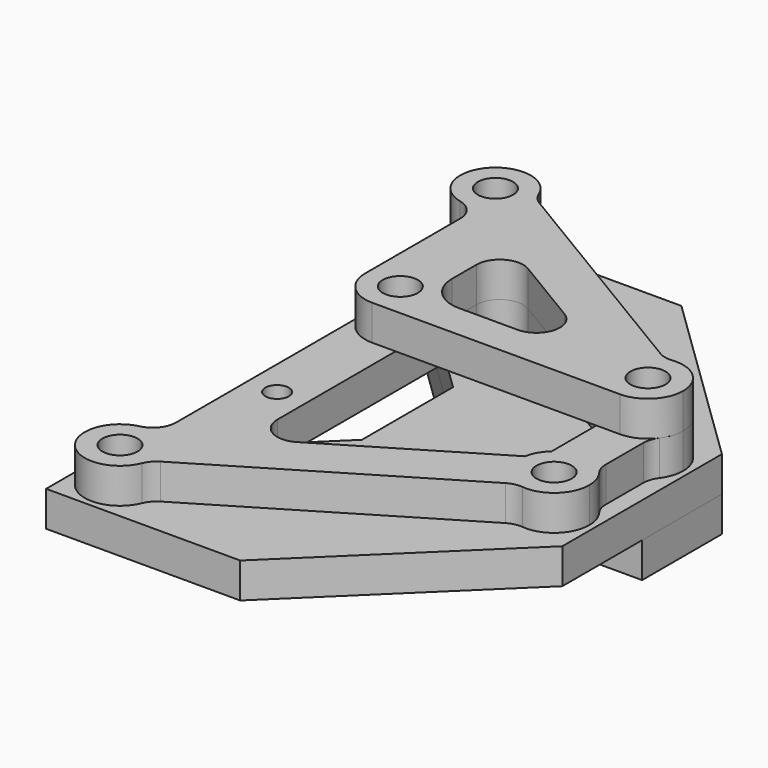
from build123d import *

# Parameters (mm, degrees)
F0_R      = 1.5
F1_DEPTH  = 3
F2_DEPTH  = 3
F3_R      = 1.5
F4_DEPTH  = 3
F5_R      = 2
F6_R      = 1.5
F7_DEPTH  = 3
F8_R      = 3
F9_R      = 1
F10_DEPTH = 3
F11_R     = 1.5
F12_DEPTH = 3


with BuildPart() as f1:
    # F0 (on Top) → F1 (new body)
    with BuildSketch(Plane.XY):
        Polygon((-3.5, 16.5), (8.5, 4.8529411765), (8.5, 0), (28.5, 0), (28.5, 8.5), (13.0454545455, 23.5), (-3.5, 23.5), align=None)
        with Locations((0, 20)):
            Circle(F0_R, mode=Mode.SUBTRACT)
        with Locations((25, 5)):
            Circle(F0_R, mode=Mode.SUBTRACT)
        Polygon((28.5, 0), (8.5, 0), (8.5, -4.8529411765), (-3.5, -16.5), (-3.5, -23.5), (13.0454545455, -23.5), (28.5, -8.5), align=None)
        with Locations((0, -20)):
            Circle(F0_R, mode=Mode.SUBTRACT)
        with Locations((25, -5)):
            Circle(F0_R, mode=Mode.SUBTRACT)
    extrude(amount=F1_DEPTH)


with BuildPart() as f2:
    # F0 (on Top) → F2 (new body)
    with BuildSketch(Plane.XY):
        Polygon((-3.5, 16.5), (8.5, 4.8529411765), (8.5, 0), (28.5, 0), (28.5, 8.5), (13.0454545455, 23.5), (-3.5, 23.5), align=None)
        with Locations((0, 20)):
            Circle(F0_R, mode=Mode.SUBTRACT)
        with Locations((25, 5)):
            Circle(F0_R, mode=Mode.SUBTRACT)
    extrude(amount=-F2_DEPTH)


with BuildPart() as f4:
    # F3 (on face) → F4 (new body)
    with BuildSketch(Plane.XY.offset(3)):
        with BuildLine():
            ThreePointArc((0.8884209613, 17.1345666653), (2.415084148, 18.2202897545), (3, 20))
            ThreePointArc((3, 20), (2.9865709391, 20.2835384022), (2.946403983, 20.5645383682))
            ThreePointArc((2.946403983, 20.5645383682), (-2.5724787771, 21.5434872663), (0.8884209613, 17.1345666653))
        make_face()
        with Locations((0, 20)):
            Circle(F3_R, mode=Mode.SUBTRACT)
        with BuildLine():
            ThreePointArc((3, -20), (2.415084148, -18.2202897545), (0.8884209613, -17.1345666653))
            ThreePointArc((0.8884209613, -17.1345666653), (-2.5724787771, -21.5434872663), (2.946403983, -20.5645383682))
            ThreePointArc((2.946403983, -20.5645383682), (2.9865709391, -20.2835384022), (3, -20))
        make_face()
        with Locations((0, -20)):
            Circle(F3_R, mode=Mode.SUBTRACT)
        with BuildLine():
            Line((27, -2.7639320225), (27, 2.7639320225))
            ThreePointArc((27, 2.7639320225), (25, 2), (23, 2.7639320225))
            Line((23, 2.7639320225), (23, -2.7639320225))
            ThreePointArc((23, -2.7639320225), (25, -2), (27, -2.7639320225))
        make_face()
        with BuildLine():
            ThreePointArc((28, 5), (26.7797102455, 7.415084148), (24.1115790387, 7.8654333347))
            ThreePointArc((24.1115790387, 7.8654333347), (22.4275212229, 6.5434872663), (22.053596017, 4.4354616318))
            ThreePointArc((22.053596017, 4.4354616318), (22.3894002797, 3.521903555), (23, 2.7639320225))
            ThreePointArc((23, 2.7639320225), (25, 2), (27, 2.7639320225))
            ThreePointArc((27, 2.7639320225), (27.7386127875, 3.7752551286), (28, 5))
        make_face()
        with Locations((25, 5)):
            Circle(F3_R, mode=Mode.SUBTRACT)
        with BuildLine():
            ThreePointArc((2.946403983, 20.5645383682), (2.9865709391, 20.2835384022), (3, 20))
            ThreePointArc((3, 20), (2.415084148, 18.2202897545), (0.8884209613, 17.1345666653))
            Line((0.8884209613, 17.1345666653), (5.8884209613, 14.1345666653))
            Line((5.8884209613, 14.1345666653), (22.053596017, 4.4354616318))
            ThreePointArc((22.053596017, 4.4354616318), (22.4275212229, 6.5434872663), (24.1115790387, 7.8654333347))
            Line((24.1115790387, 7.8654333347), (2.946403983, 20.5645383682))
        make_face()
        with BuildLine():
            ThreePointArc((28, -5), (27.7386127875, -3.7752551286), (27, -2.7639320225))
            ThreePointArc((27, -2.7639320225), (25, -2), (23, -2.7639320225))
            ThreePointArc((23, -2.7639320225), (22.3894002797, -3.521903555), (22.053596017, -4.4354616318))
            ThreePointArc((22.053596017, -4.4354616318), (22.4275212229, -6.5434872663), (24.1115790387, -7.8654333347))
            ThreePointArc((24.1115790387, -7.8654333347), (26.7797102455, -7.415084148), (28, -5))
        make_face()
        with Locations((25, -5)):
            Circle(F3_R, mode=Mode.SUBTRACT)
        with BuildLine():
            Line((5.8884209613, -14.1345666653), (0.8884209613, -17.1345666653))
            ThreePointArc((0.8884209613, -17.1345666653), (2.415084148, -18.2202897545), (3, -20))
            ThreePointArc((3, -20), (2.9865709391, -20.2835384022), (2.946403983, -20.5645383682))
            Line((2.946403983, -20.5645383682), (24.1115790387, -7.8654333347))
            ThreePointArc((24.1115790387, -7.8654333347), (22.4275212229, -6.5434872663), (22.053596017, -4.4354616318))
            Line((22.053596017, -4.4354616318), (5.8884209613, -14.1345666653))
        make_face()
        Polygon((5.8884209613, 14.1345666653), (0.8884209613, 17.1345666653), (0.8884209613, 12.2406502435), (5.8884209613, 7.387709067), align=None)
        Polygon((5.8884209613, -7.387709067), (0.8884209613, -12.2406502435), (0.8884209613, -17.1345666653), (5.8884209613, -14.1345666653), align=None)
        Polygon((5.8884209613, 7.387709067), (0.8884209613, 12.2406502435), (0.8884209613, -12.2406502435), (5.8884209613, -7.387709067), align=None)
    extrude(amount=F4_DEPTH)

    # F5
    f5_edges = [f4.edges().sort_by_distance(p)[0] for p in [
        (0.888421, 17.134567, 4.5),
        (0.888421, -17.134567, 4.5),
        (2.946404, -20.564538, 4.5),
        (24.111579, -7.865433, 4.5),
        (27, 2.763932, 4.5),
        (27, -2.763932, 4.5),
        (24.111579, 7.865433, 4.5),
        (5.888421, -14.134567, 4.5),
        (5.888421, 14.134567, 4.5),
        (2.946404, 20.564538, 4.5),
    ]]
    fillet(f5_edges, radius=F5_R)

    # F9 (on face) → F10 (cut, through all)
    with BuildSketch(Plane.XY.offset(6)):
        with Locations((3.3884209613, 7.5)):
            Circle(F9_R)
        with Locations((3.3884209613, -7.5)):
            Circle(F9_R)
    extrude(amount=-F10_DEPTH, mode=Mode.SUBTRACT)


with BuildPart() as f7:
    # F6 (on face) → F7 (new body)
    with BuildSketch(Plane.XY.offset(6)):
        with BuildLine():
            ThreePointArc((0.8884209613, 17.1345666653), (2.415084148, 18.2202897545), (3, 20))
            ThreePointArc((3, 20), (2.9865709391, 20.2835384022), (2.946403983, 20.5645383682))
            ThreePointArc((2.946403983, 20.5645383682), (2.8763632372, 20.8523699475), (2.7782770793, 21.1318906619))
            ThreePointArc((2.7782770793, 21.1318906619), (-2.2866711137, 21.9419410953), (-0.6669474232, 17.0750758754))
            ThreePointArc((-0.6669474232, 17.0750758754), (0.1146622018, 17.0021920376), (0.8884209613, 17.1345666653))
        make_face()
        with Locations((0, 20)):
            Circle(F6_R, mode=Mode.SUBTRACT)
        with BuildLine():
            ThreePointArc((2.946403983, 20.5645383682), (2.9865709391, 20.2835384022), (3, 20))
            ThreePointArc((3, 20), (2.415084148, 18.2202897545), (0.8884209613, 17.1345666653))
            Line((0.8884209613, 17.1345666653), (5.8884209613, 14.1345666653))
            Line((5.8884209613, 14.1345666653), (8.9174124721, 12.3171717588))
            Line((8.9174124721, 12.3171717588), (14.9210556511, 8.7149858514))
            ThreePointArc((14.9210556511, 8.7149858514), (15.8194939966, 6.4661328362), (13.8920641402, 5))
            Line((13.8920641402, 5), (5.8884209613, 5))
            Line((5.8884209613, 5), (5.8884209613, 2))
            Line((5.8884209613, 2), (25, 2))
            ThreePointArc((25, 2), (22.0338324386, 4.550722805), (24.1115790387, 7.8654333347))
            Line((24.1115790387, 7.8654333347), (23.4565127337, 8.2584731177))
            Line((23.4565127337, 8.2584731177), (3.601470288, 20.1714985851))
            Line((3.601470288, 20.1714985851), (2.946403983, 20.5645383682))
        make_face()
        with BuildLine():
            ThreePointArc((2.7782770793, 21.1318906619), (2.8763632372, 20.8523699475), (2.946403983, 20.5645383682))
            Line((2.946403983, 20.5645383682), (3.601470288, 20.1714985851))
            ThreePointArc((3.601470288, 20.1714985851), (3.1119485941, 20.5849016897), (2.7782770793, 21.1318906619))
        make_face()
        with BuildLine():
            Line((0.8884209613, 15.125126459), (0.8884209613, 17.1345666653))
            ThreePointArc((0.8884209613, 17.1345666653), (0.1146622018, 17.0021920376), (-0.6669474232, 17.0750758754))
            ThreePointArc((-0.6669474232, 17.0750758754), (0.4519527376, 16.3722705503), (0.8884209613, 15.125126459))
        make_face()
        Polygon((5.8884209613, 14.1345666653), (0.8884209613, 17.1345666653), (0.8884209613, 15.125126459), (0.8884209613, 2), (5.8884209613, 2), (5.8884209613, 5), (5.8884209613, 10.6021859074), align=None)
        with BuildLine():
            ThreePointArc((24.6913025467, 7.9840753815), (24.0516433289, 8.0210848488), (23.4565127337, 8.2584731177))
            Line((23.4565127337, 8.2584731177), (24.1115790387, 7.8654333347))
            ThreePointArc((24.1115790387, 7.8654333347), (24.3985084303, 7.9390828317), (24.6913025467, 7.9840753815))
        make_face()
        with BuildLine():
            ThreePointArc((24.6913025467, 7.9840753815), (24.3985084303, 7.9390828317), (24.1115790387, 7.8654333347))
            ThreePointArc((24.1115790387, 7.8654333347), (22.0338324386, 4.550722805), (25, 2))
            ThreePointArc((25, 2), (27.1213203436, 2.8786796564), (28, 5))
            ThreePointArc((28, 5), (27.0092172158, 7.2277895277), (24.6913025467, 7.9840753815))
        make_face()
        with Locations((25, 5)):
            Circle(F6_R, mode=Mode.SUBTRACT)
        with BuildLine():
            Line((8.9174124721, 12.3171717588), (5.8884209613, 14.1345666653))
            Line((5.8884209613, 14.1345666653), (5.8884209613, 10.6021859074))
            ThreePointArc((5.8884209613, 10.6021859074), (6.9030233313, 12.3425857209), (8.9174124721, 12.3171717588))
        make_face()
    extrude(amount=F7_DEPTH)

    # F8
    f8_edges = [f7.edges().sort_by_distance(p)[0] for p in [
        (5.888421, 5, 7.5),
        (0.888421, 2, 7.5),
    ]]
    fillet(f8_edges, radius=F8_R)

    # F11 (on face) → F12 (cut, through all)
    with BuildSketch(Plane.XY.offset(9)):
        with Locations((3.8884209613, 5)):
            Circle(F11_R)
    extrude(amount=-F12_DEPTH, mode=Mode.SUBTRACT)


solid = Compound([f1.part, f2.part, f4.part, f7.part])
